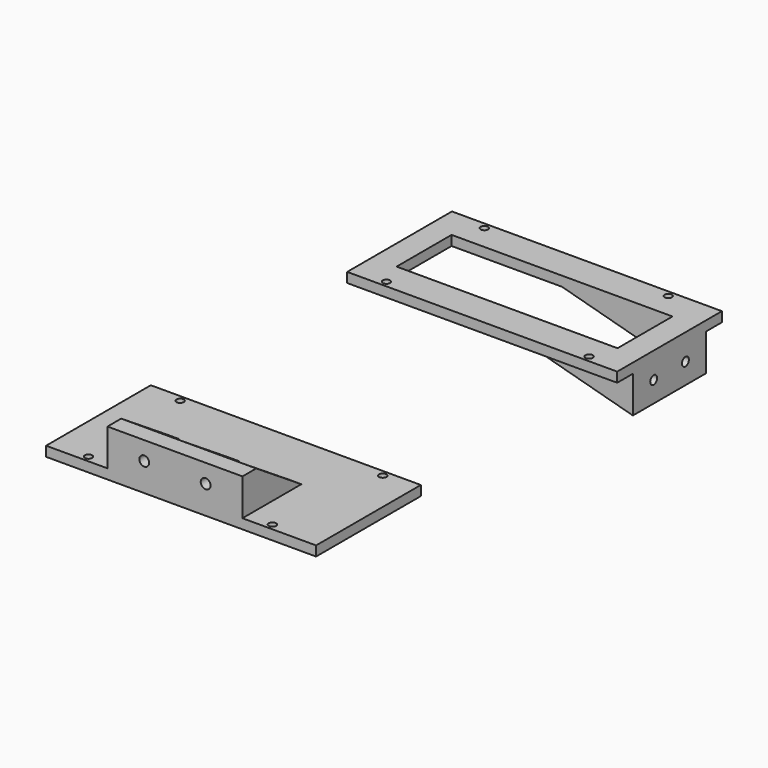
from build123d import *

# Parameters (mm, degrees)
F0_W           = 110
F0_H           = 53.34
F0_R           = 1.5
F0_W_2         = 90
F0_H_2         = 28
F1_DEPTH       = 4
F2_W           = 7
F2_H           = 11.17
F3_DEPTH       = 15
F5_DEPTH       = 60
F6_R           = 1.75
F7_DEPTH       = 8
F8_W           = 20
F8_H           = 7
F9_DEPTH       = 15
F11_DEPTH      = 50
F11_DEPTH_BACK = 25
F12_R          = 2
F13_DEPTH      = 25
F14_R          = 4
F15_DEPTH      = 3


with BuildPart() as f1:
    # F0 (on Top) → F1 (new body)
    with BuildSketch(Plane.XY):
        Rectangle(F0_W, F0_H)
        with Locations((-41.03, -24.13)):
            Circle(F0_R, mode=Mode.SUBTRACT)
        with Locations((-39.76, 24.13)):
            Circle(F0_R, mode=Mode.SUBTRACT)
        Rectangle(F0_W_2, F0_H_2, mode=Mode.SUBTRACT)
        with Locations((41.52, -24.13)):
            Circle(F0_R, mode=Mode.SUBTRACT)
        with Locations((35.17, 24.13)):
            Circle(F0_R, mode=Mode.SUBTRACT)
    extrude(amount=F1_DEPTH)

    # F2 (on face) → F3 (join)
    with BuildSketch(Plane(origin=(0, 0, 0), x_dir=(1, 0, 0), z_dir=(0, 0, -1))):
        Polygon((55, 13.67), (55, 18.67), (0, 18.67), (0, 14), (45, 14), (45, 13.67), (48, 13.67), align=None)
        Polygon((55, -2.5), (55, 2.5), (48, 2.5), (45, 2.5), (45, -2.5), (48, -2.5), align=None)
        Polygon((55, -18.67), (55, -13.67), (48, -13.67), (45, -13.67), (45, -14), (0, -14), (0, -18.67), align=None)
        with Locations((51.5, 8.085)):
            Rectangle(F2_W, F2_H)
        with Locations((51.5, -8.085)):
            Rectangle(F2_W, F2_H)
    extrude(amount=F3_DEPTH)

    # F4 (on face) → F5 (cut)
    with BuildSketch(Plane.XZ.offset(18.67)):
        Polygon((55, -15), (0, 0), (0, -15), align=None)
    extrude(amount=-F5_DEPTH, mode=Mode.SUBTRACT)

    # F6 (on face) → F7 (cut)
    with BuildSketch(Plane(origin=(48, 0, 0), x_dir=(0, -1, 0), z_dir=(-1, 0, 0))):
        with Locations((8.085, -6.5454545455)):
            Circle(F6_R)
        with Locations((-8.085, -6.5454545455)):
            Circle(F6_R)
    extrude(amount=-F7_DEPTH, mode=Mode.SUBTRACT)

    # F14 (on face) → F15 (cut)
    with BuildSketch(Plane(origin=(48, 0, 0), x_dir=(0, -1, 0), z_dir=(-1, 0, 0))):
        with Locations((-8.085, -6.5454545455)):
            Circle(F14_R)
        with Locations((8.085, -6.5454545455)):
            Circle(F14_R)
    extrude(amount=-F15_DEPTH, mode=Mode.SUBTRACT)


with BuildPart() as f1b:
    # F0 (on Top) → F1, piece 2 (new body)
    with BuildSketch(Plane.XY):
        with Locations((0, -153.34)):
            Rectangle(F0_W, F0_H)
        with Locations((-39.76, -177.47)):
            Circle(F0_R, mode=Mode.SUBTRACT)
        with Locations((-41.03, -129.21)):
            Circle(F0_R, mode=Mode.SUBTRACT)
        with Locations((35.17, -177.47)):
            Circle(F0_R, mode=Mode.SUBTRACT)
        with Locations((41.52, -129.21)):
            Circle(F0_R, mode=Mode.SUBTRACT)
    extrude(amount=F1_DEPTH)

    # F8 (on face) → F9 (join)
    with BuildSketch(Plane.XY.offset(4)):
        Polygon((-30, -150.01), (-30, -180.01), (-25, -180.01), (-25, -173.01), (-25, -150.01), align=None)
        Polygon((20, -150.01), (20, -173.01), (20, -180.01), (25, -180.01), (25, -150.01), align=None)
        with Locations((-15, -176.51)):
            Rectangle(F8_W, F8_H)
        Polygon((-5, -173.01), (-5, -180.01), (0, -180.01), (0, -173.01), (0, -150.01), (-5, -150.01), align=None)
        with Locations((10, -176.51)):
            Rectangle(F8_W, F8_H)
    extrude(amount=F9_DEPTH)

    # F10 (on face) → F11 (cut, two sides)
    with BuildSketch(Plane.YZ.offset(-25)) as f11_sk:
        Polygon((-150.01, 19), (-173.01, 19), (-150.01, 4), align=None)
    extrude(amount=F11_DEPTH, mode=Mode.SUBTRACT)
    extrude(f11_sk.sketch, amount=-F11_DEPTH_BACK, mode=Mode.SUBTRACT)

    # F12 (on face) → F13 (cut)
    with BuildSketch(Plane(origin=(0, -173.01, 0), x_dir=(-1, 0, 0), z_dir=(0, 1, 0))):
        with Locations((15, 11.5)):
            Circle(F12_R)
        with Locations((-10, 11.5)):
            Circle(F12_R)
    extrude(amount=-F13_DEPTH, mode=Mode.SUBTRACT)


solid = Compound([f1.part, f1b.part])
